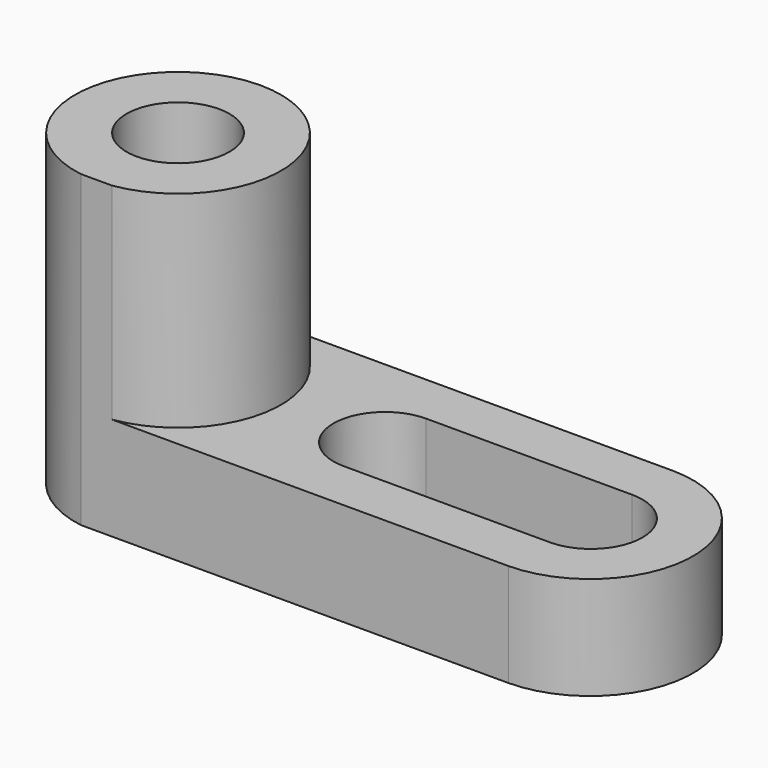
from build123d import *

# Parameters (mm, degrees)
F1_DEPTH = 25.4
F3_DEPTH = 25.4
F5_DEPTH = 38.1
F7_DEPTH = 12.7
F8_R     = 6.35
F9_DEPTH = 38.1


with BuildPart() as f1:
    # F0 (on Front) → F1 (new body)
    with BuildSketch(Plane.XZ):
        Polygon((0, 38.1), (0, 0), (76.2, 0), (76.2, 12.7), (25.4, 12.7), (25.4, 38.1), align=None)
    extrude(amount=F1_DEPTH)

    # F2 (on face) → F3 (cut)
    with BuildSketch(Plane.XY.offset(38.1)):
        with BuildLine():
            ThreePointArc((0, -12.8449322656), (12.7, -0.1449322656), (25.4, -12.8449322656))
            Line((25.4, -12.8449322656), (25.4, 0))
            Line((25.4, 0), (0, 0))
            Line((0, 0), (0, -12.8449322656))
        make_face()
        with BuildLine():
            Line((25.4, -25.4), (25.4, -12.8449322656))
            ThreePointArc((25.4, -12.8449322656), (22.3329497214, -21.1211801875), (14.6131843048, -25.4))
            Line((14.6131843048, -25.4), (25.4, -25.4))
        make_face()
    extrude(amount=-F3_DEPTH, mode=Mode.SUBTRACT)

    # F4 (on face) → F5 (cut)
    with BuildSketch(Plane.XY.offset(38.1)):
        with BuildLine():
            ThreePointArc((0, -12.8449322656), (3.7197438789, -3.8646761445), (12.7, -0.1449322656))
            Line((12.7, -0.1449322656), (0, 0))
            Line((0, 0), (0, -12.8449322656))
        make_face()
        with BuildLine():
            ThreePointArc((10.7868156952, -25.4), (3.0670502786, -21.1211801875), (0, -12.8449322656))
            Line((0, -12.8449322656), (0, -25.4))
            Line((0, -25.4), (10.7868156952, -25.4))
        make_face()
    extrude(amount=-F5_DEPTH, mode=Mode.SUBTRACT)

    # F6 (on face) → F7 (cut)
    with BuildSketch(Plane.XY.offset(12.7)):
        with BuildLine():
            ThreePointArc((44.4495865053, -12.7), (42.5897145658, -8.2098719395), (38.0995865053, -6.35))
            ThreePointArc((38.0995865053, -6.35), (31.7495865053, -12.7), (38.0995865053, -19.05))
            ThreePointArc((38.0995865053, -19.05), (42.5897145658, -17.1901280605), (44.4495865053, -12.7))
        make_face()
        with BuildLine():
            ThreePointArc((63.5, -19.05), (57.15, -12.7), (63.5, -6.35))
            Line((63.5, -6.35), (38.0995865053, -6.35))
            ThreePointArc((38.0995865053, -6.35), (42.5897145658, -8.2098719395), (44.4495865053, -12.7))
            ThreePointArc((44.4495865053, -12.7), (42.5897145658, -17.1901280605), (38.0995865053, -19.05))
            Line((38.0995865053, -19.05), (63.5, -19.05))
        make_face()
        with BuildLine():
            ThreePointArc((63.5, -19.05), (67.9901280605, -17.1901280605), (69.85, -12.7))
            ThreePointArc((69.85, -12.7), (67.9901280605, -8.2098719395), (63.5, -6.35))
            ThreePointArc((63.5, -6.35), (57.15, -12.7), (63.5, -19.05))
        make_face()
        with BuildLine():
            ThreePointArc((63.5, 0), (76.0816873659, -12.7), (63.5, -25.4))
            Line((63.5, -25.4), (76.2, -25.4))
            Line((76.2, -25.4), (76.2, 0))
            Line((76.2, 0), (63.5, 0))
        make_face()
    extrude(amount=-F7_DEPTH, mode=Mode.SUBTRACT)

    # F8 (on face) → F9 (cut)
    with BuildSketch(Plane.XY.offset(38.1)):
        with Locations((12.7, -12.8449322656)):
            Circle(F8_R)
    extrude(amount=-F9_DEPTH, mode=Mode.SUBTRACT)


solid = f1.part
